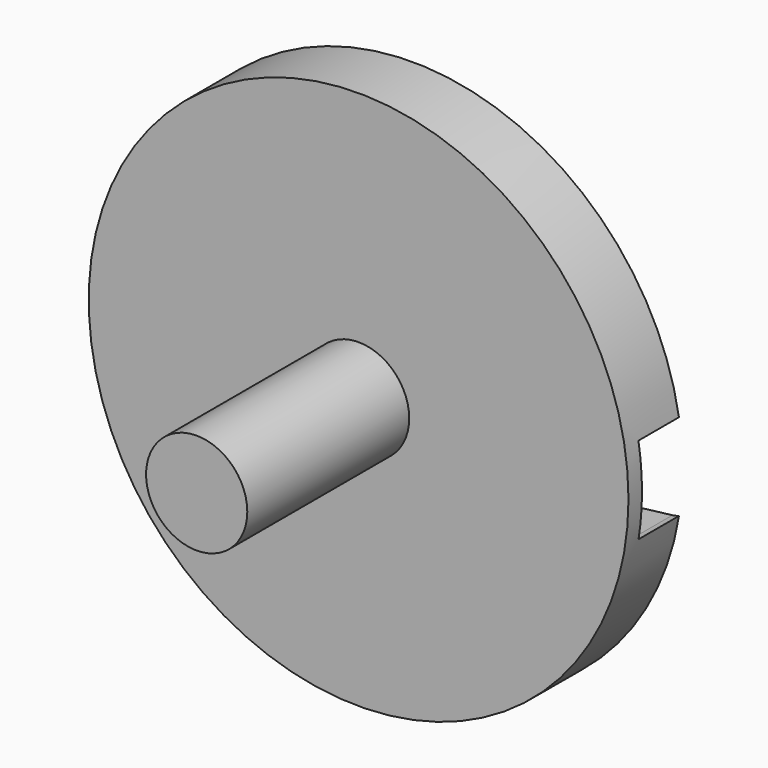
from build123d import *

# Parameters (mm, degrees)
CYLINDER031_R          = 3
CYLINDER031_DEPTH      = 12
CYLINDER031_ROLL_ANGLE = 90
PAD018_DEPTH           = 3
CYLINDER032_R          = 16
CYLINDER032_DEPTH      = 4
CYLINDER032_ROLL_ANGLE = 90


with BuildPart() as cylinder022_holder_axis:
    # Cylinder031 → Cylinder031 (new body)
    with BuildSketch(Plane.XY):
        Circle(CYLINDER031_R)
    extrude(amount=CYLINDER031_DEPTH)


with BuildPart() as cylinder022_holder_axis_1:
    # Cylinder031 roll: moved
    add(cylinder022_holder_axis.part.rotate(Axis((0, 0, 0), (1, 0, 0)), CYLINDER031_ROLL_ANGLE))


with BuildPart() as cylinder022_holder_axis_2:
    # Cylinder031 placement: moved
    add(cylinder022_holder_axis_1.part.moved(Location((-2, -22, 3.5))))


with BuildPart() as pad018:
    # Sketch015 → Pad018 (new body)
    with BuildSketch(Plane.XZ.offset(18)):
        with BuildLine():
            Line((-17.270868, 6), (-2, 8))
            Line((-2, 8), (13.457036, 6.165845))
            ThreePointArc((13.404874, 0.850143), (15.692563, 3.485802), (13.457036, 6.165845))
            Line((13.404874, 0.850143), (-2, -1))
            Line((-2, -1), (-17.581, 1.174724))
            ThreePointArc((-17.270868, 6), (-19.680526, 3.73227), (-17.581, 1.174724))
        make_face()
    extrude(amount=PAD018_DEPTH)


with BuildPart() as camera_rotor:
    # Cylinder032 → Cylinder032 (new body)
    with BuildSketch(Plane.XY):
        Circle(CYLINDER032_R)
    extrude(amount=CYLINDER032_DEPTH)


with BuildPart() as camera_rotor_1:
    # Cylinder032 roll: moved
    add(camera_rotor.part.rotate(Axis((0, 0, 0), (1, 0, 0)), CYLINDER032_ROLL_ANGLE))


with BuildPart() as camera_rotor_2:
    # Cylinder032 placement: moved
    add(camera_rotor_1.part.moved(Location((-2, -18, 3.5))))

    # Cut006: cut Pad018
    add(pad018.part, mode=Mode.SUBTRACT)

    # Fusion004: union Cylinder022-holder-axis
    add(cylinder022_holder_axis_2.part)


solid = camera_rotor_2.part
